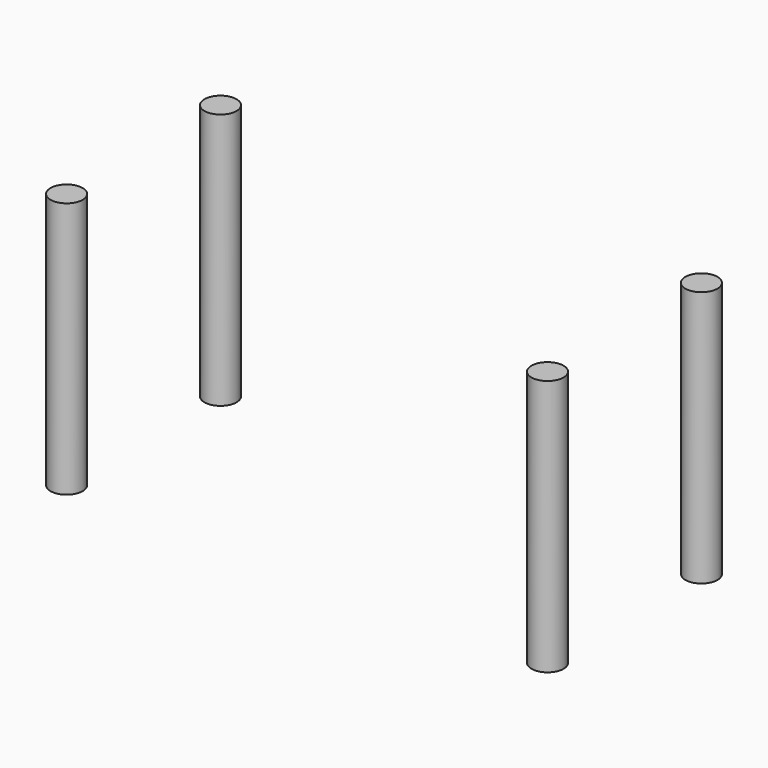
from build123d import *

# Parameters (mm, degrees)
F0_R          = 0.5
F1_DEPTH      = 3
F1_DEPTH_BACK = 5


with BuildPart() as f1:
    # F0 (on Top) → F1 (new body, two sides)
    with BuildSketch(Plane.XY) as f1_sk:
        with Locations((-7.5, -3)):
            Circle(F0_R)
        with Locations((7.5, -3)):
            Circle(F0_R)
        with Locations((7.5, 3)):
            Circle(F0_R)
        with Locations((-7.5, 3)):
            Circle(F0_R)
    extrude(amount=F1_DEPTH)
    extrude(f1_sk.sketch, amount=-F1_DEPTH_BACK)


solid = f1.part
